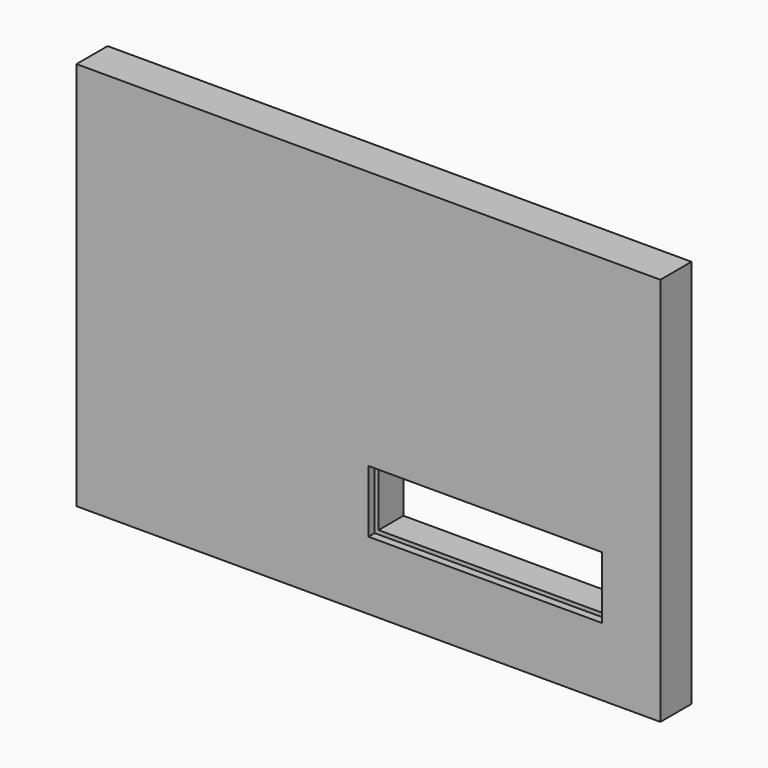
from build123d import *

# Parameters (mm, degrees)
F0_W     = 1500
F0_H     = 1000
F0_W_2   = 600
F0_H_2   = 160
F1_DEPTH = 100
F2_W     = 600
F2_H     = 160
F2_W_2   = 580
F2_H_2   = 140
F3_DEPTH = 80


with BuildPart() as f1:
    # F0 (on Front) → F1 (new body)
    with BuildSketch(Plane.XZ):
        Rectangle(F0_W, F0_H)
        with Locations((300, -244.999988)):
            Rectangle(F0_W_2, F0_H_2, mode=Mode.SUBTRACT)
    extrude(amount=F1_DEPTH)


with BuildPart() as f3:
    # F2 (on face) → F3 (new body)
    with BuildSketch(Plane(origin=(0, 0, 0), x_dir=(-1, 0, 0), z_dir=(0, 1, 0))):
        with Locations((-300, -244.999988)):
            Rectangle(F2_W, F2_H)
        with Locations((-300, -244.999988)):
            Rectangle(F2_W_2, F2_H_2, mode=Mode.SUBTRACT)
    extrude(amount=-F3_DEPTH)


solid = Compound([f1.part, f3.part])
